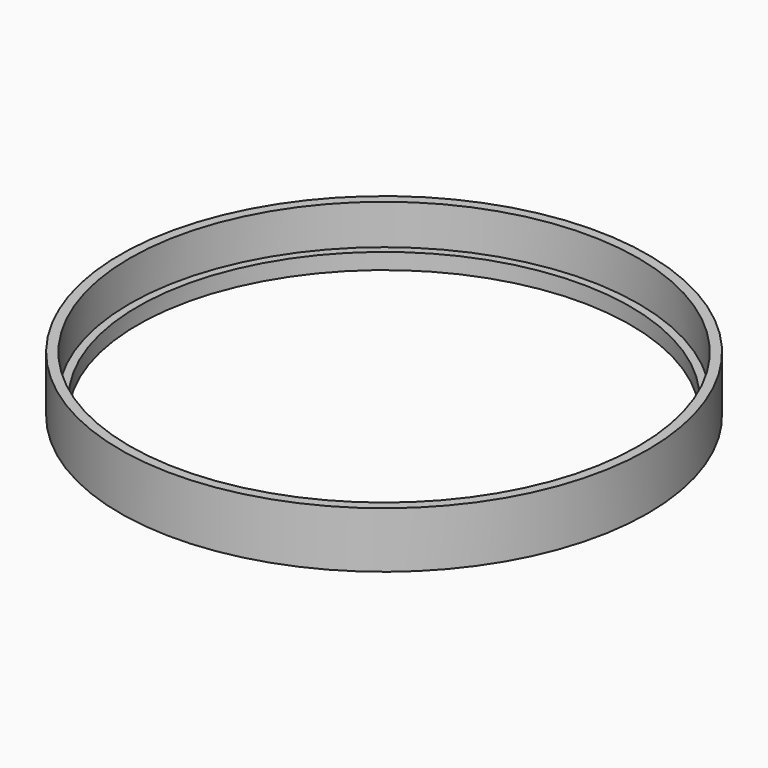
from build123d import *

# Parameters (mm, degrees)
CYLINDER_R        = 77
CYLINDER_DEPTH    = 5
CYLINDER001_R     = 79.5
CYLINDER001_DEPTH = 12.5
CYLINDER002_R     = 82.5
CYLINDER002_DEPTH = 17.5


with BuildPart() as cylinder:
    # Cylinder → Cylinder (new body)
    with BuildSketch(Plane.XY):
        Circle(CYLINDER_R)
    extrude(amount=CYLINDER_DEPTH)


with BuildPart() as fusion:
    # Cylinder001 → Cylinder001 (new body)
    with BuildSketch(Plane.XY.offset(5)):
        Circle(CYLINDER001_R)
    extrude(amount=CYLINDER001_DEPTH)

    # Fusion: union Cylinder
    add(cylinder.part)


with BuildPart() as obj1:
    # Cylinder002 → Cylinder002 (new body)
    with BuildSketch(Plane.XY):
        Circle(CYLINDER002_R)
    extrude(amount=CYLINDER002_DEPTH)

    # Cut: cut Fusion
    add(fusion.part, mode=Mode.SUBTRACT)


solid = obj1.part
